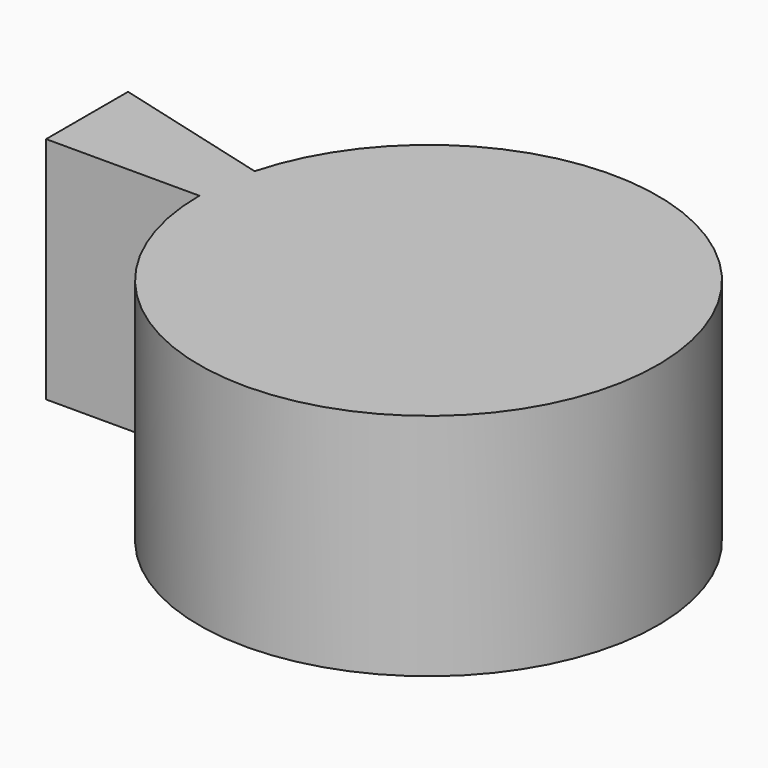
from build123d import *

# Parameters (mm, degrees)
F1_DEPTH = 2


with BuildPart() as f1:
    # F0 (on Top) → F1 (new body)
    with BuildSketch(Plane.XY):
        with BuildLine():
            Line((-1.931852, 0.517638), (0, 0))
            Line((0, 0), (-2, 0))
            ThreePointArc((-2, 0), (1.98289, -0.261052), (-1.931852, 0.517638))
        make_face()
        Polygon((-2, 0), (0, 0), (-1.931852, 0.517638), (-3.3374, 0.894254), (-3.3374, 0), align=None)
    extrude(amount=F1_DEPTH)


solid = f1.part
